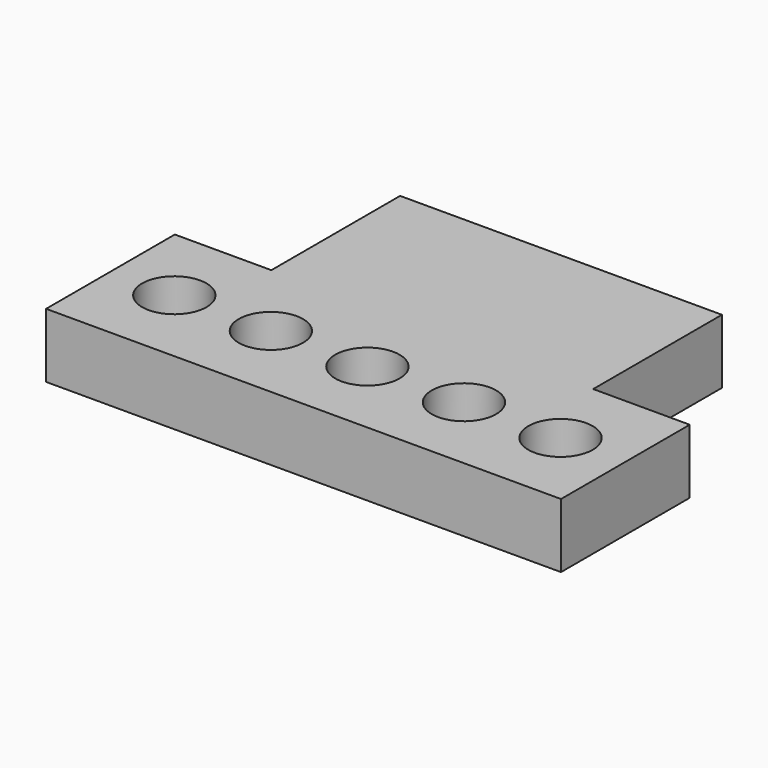
from build123d import *

# Parameters (mm, degrees)
F0_R     = 12.7
F1_DEPTH = 25.4


with BuildPart() as f1:
    # F0 (on Top) → F1 (new body)
    with BuildSketch(Plane.XY):
        Polygon((101.6, -31.75), (101.6, 31.75), (63.5, 31.75), (0, 31.75), (-63.5, 31.75), (-101.6, 31.75), (-101.6, -31.75), align=None)
        with Locations((-76.391645, 0)):
            Circle(F0_R, mode=Mode.SUBTRACT)
        with Locations((-38.291645, 0)):
            Circle(F0_R, mode=Mode.SUBTRACT)
        with Locations((-0.191645, 0)):
            Circle(F0_R, mode=Mode.SUBTRACT)
        with Locations((37.908355, 0)):
            Circle(F0_R, mode=Mode.SUBTRACT)
        with Locations((76.008355, 0)):
            Circle(F0_R, mode=Mode.SUBTRACT)
        Polygon((0, 31.75), (63.5, 31.75), (63.5, 95.25), (-63.5, 95.25), (-63.5, 31.75), align=None)
    extrude(amount=F1_DEPTH)


solid = f1.part
